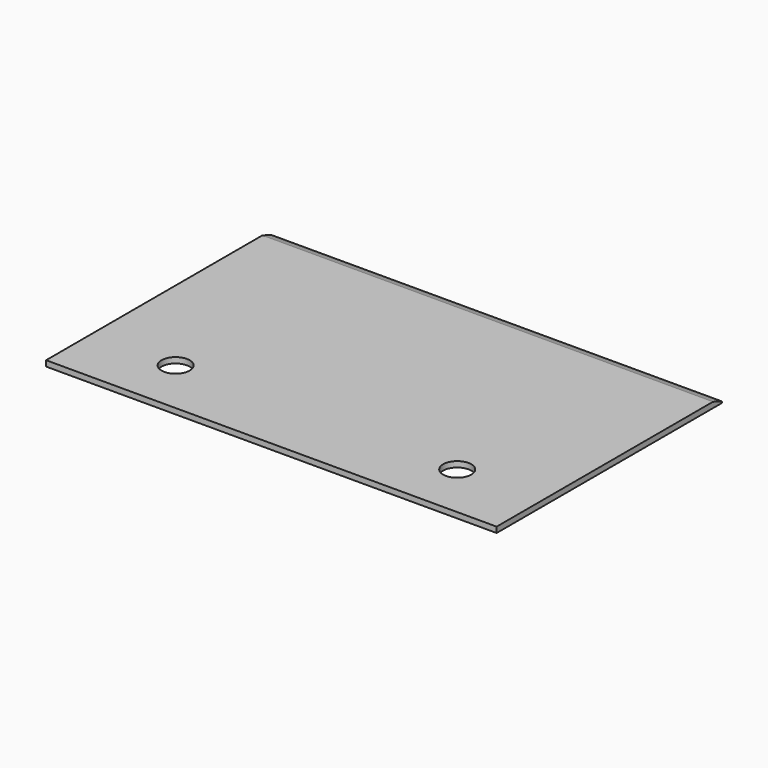
from build123d import *

# Parameters (mm, degrees)
SKETCH_W      = 160
SKETCH_H      = 100
PAD_DEPTH     = 2
CHAMFER_SIZE2 = 4
CHAMFER_SIZE  = 1.5
SKETCH001_R   = 5
POCKET_DEPTH  = 2


with BuildPart() as part:
    # Sketch → Pad (new body)
    with BuildSketch(Plane.XY):
        Rectangle(SKETCH_W, SKETCH_H)
    extrude(amount=PAD_DEPTH)

    # Chamfer
    chamfer_edges = [part.edges().sort_by_distance(p)[0] for p in [
        (0, 50, 2),
    ]]
    chamfer_side = part.faces().sort_by_distance((0, 50, 1))[0]
    chamfer(chamfer_edges, length=CHAMFER_SIZE, length2=CHAMFER_SIZE2, reference=chamfer_side)

    # Sketch001 (on Face5 of Chamfer) → Pocket (cut)
    with BuildSketch(Plane.XY.offset(2)):
        with Locations((-50, -30)):
            Circle(SKETCH001_R)
        with Locations((50, -30)):
            Circle(SKETCH001_R)
    extrude(amount=-POCKET_DEPTH, mode=Mode.SUBTRACT)


solid = part.part
